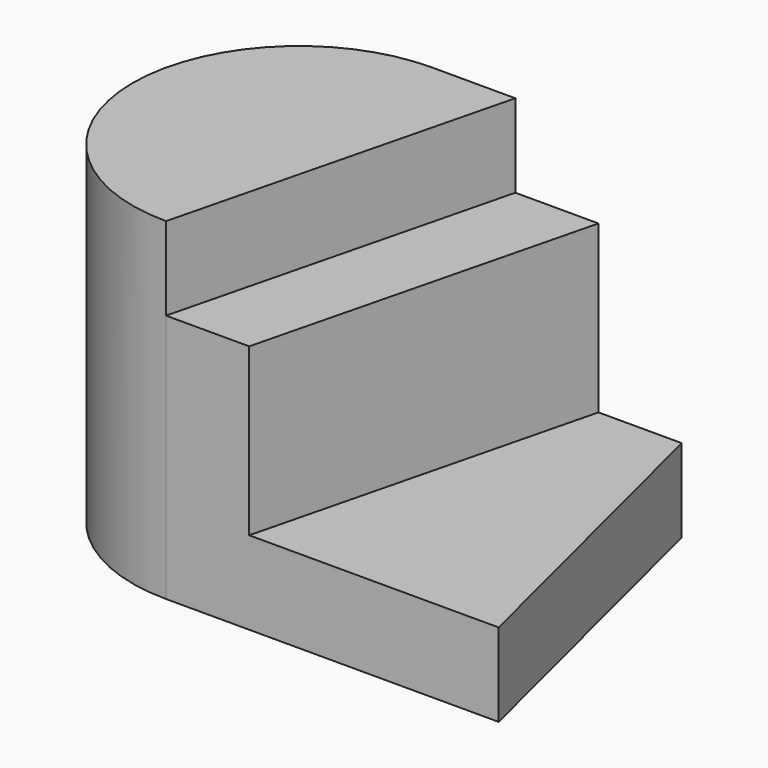
from build123d import *

# Parameters (mm, degrees)
F1_DEPTH = 40
F3_DEPTH = 10
F5_DEPTH = 20


with BuildPart() as f1:
    # F0 (on Top) → F1 (new body)
    with BuildSketch(Plane.XY):
        with BuildLine():
            Line((-40, 0), (0, 0))
            Line((0, 0), (-10, 40))
            Line((-10, 40), (-40, 40))
            ThreePointArc((-40, 40), (-60, 20), (-40, 0))
        make_face()
    extrude(amount=F1_DEPTH)

    # F2 (on face) → F3 (cut)
    with BuildSketch(Plane.XY.offset(40)):
        Polygon((-10, 40), (-30, 40), (-40, 0), (0, 0), align=None)
    extrude(amount=-F3_DEPTH, mode=Mode.SUBTRACT)

    # F4 (on face) → F5 (cut)
    with BuildSketch(Plane.XY.offset(30)):
        Polygon((-10, 40), (-20, 40), (-30, 0), (0, 0), align=None)
    extrude(amount=-F5_DEPTH, mode=Mode.SUBTRACT)


solid = f1.part
